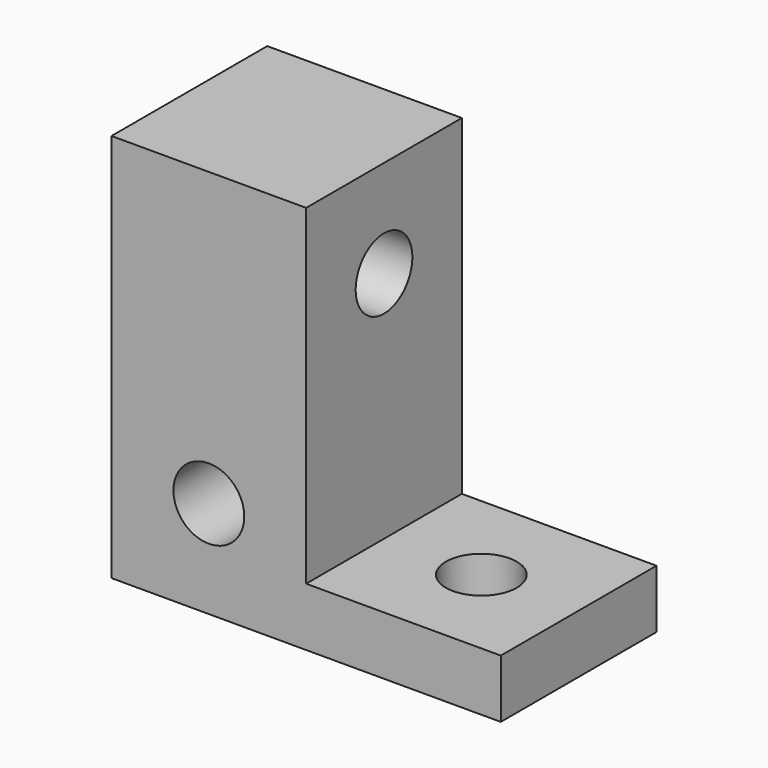
from build123d import *

# Parameters (mm, degrees)
F0_R     = 2.3114
F1_DEPTH = 12.7
F2_R     = 2.3114
F3_DEPTH = 25.4
F4_R     = 2.3114
F5_DEPTH = 3.81


with BuildPart() as f1:
    # F0 (on Front) → F1 (new body)
    with BuildSketch(Plane.XZ):
        Polygon((0, 25.4), (0, 0), (25.4, 0), (25.4, 3.81), (12.7, 3.81), (12.7, 25.4), align=None)
        with Locations((6.35, 6.35)):
            Circle(F0_R, mode=Mode.SUBTRACT)
    extrude(amount=F1_DEPTH)

    # F2 (on face) → F3 (cut)
    with BuildSketch(Plane(origin=(0, 0, 0), x_dir=(0, -1, 0), z_dir=(-1, 0, 0))):
        with Locations((6.35, 19.05)):
            Circle(F2_R)
    extrude(amount=-F3_DEPTH, mode=Mode.SUBTRACT)

    # F4 (on face) → F5 (cut)
    with BuildSketch(Plane.XY.offset(3.81)):
        with Locations((19.05, -6.35)):
            Circle(F4_R)
    extrude(amount=-F5_DEPTH, mode=Mode.SUBTRACT)


solid = f1.part
